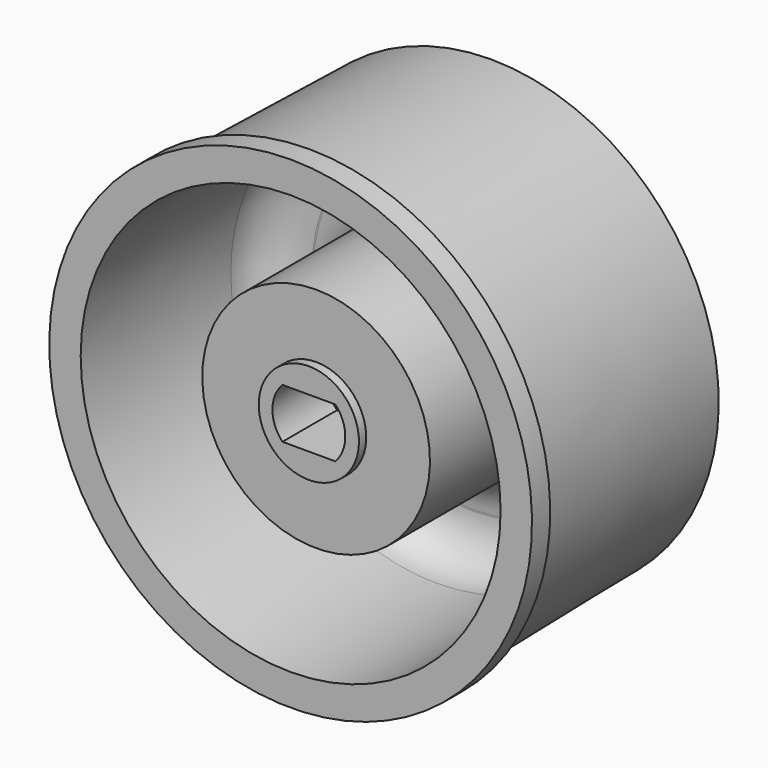
from build123d import *

# Parameters (mm, degrees)
F3_DEPTH = 3
F4_R     = 2


with BuildPart() as f1:
    # F0 (on Right) → F1 (revolve)
    with BuildSketch(Plane.YZ):
        Polygon((0, 0.6), (0, 0), (3, 0), (3, 2.4), (10, 2.4), (10, 8.4), (0, 8.6), (0, 9), (-1, 9), (-1, 7.61980002), (9, 7.41980002), (9, 3.4), (0.4, 3.4), (0.4, 0.6), align=None)
    revolve(axis=Axis((0, 5.8202521418, -1.6), (0, 1, 0)))

    # F2 (on face) → F3 (join, through all)
    with BuildSketch(Plane(origin=(0, 3, 0), x_dir=(-1, 0, 0), z_dir=(0, 1, 0))):
        with BuildLine():
            Line((-1.1618950039, -0.5), (1.1618950039, -0.5))
            ThreePointArc((1.1618950039, -0.5), (0, 0), (-1.1618950039, -0.5))
        make_face()
        with BuildLine():
            ThreePointArc((-1.1618950039, -2.7), (0, -3.2), (1.1618950039, -2.7))
            Line((1.1618950039, -2.7), (-1.1618950039, -2.7))
        make_face()
    extrude(amount=-F3_DEPTH)

    # F4
    f4_edges = [f1.edges().sort_by_distance(p)[0] for p in [
        (0, 9, -10.6198),
        (0, 9, -6.6),
    ]]
    fillet(f4_edges, radius=F4_R)


solid = f1.part
